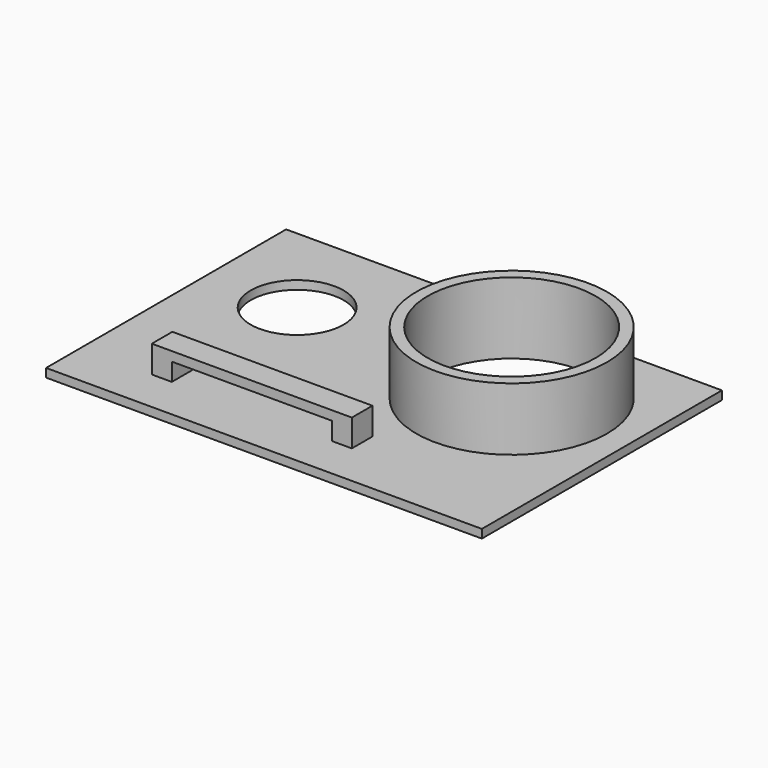
from build123d import *

# Parameters (mm, degrees)
F0_W     = 61
F0_H     = 42
F0_W_2   = 28
F0_H_2   = 3.6
F0_R     = 6.5
F0_R_2   = 13.35
F0_R_3   = 11.75
F1_DEPTH = 1.2
F2_DEPTH = 10
F3_DEPTH = 5
F4_W     = 22.4
F4_H     = 2.5
F5_DEPTH = 5


with BuildPart() as f1:
    # F0 (on Top) → F1 (new body)
    with BuildSketch(Plane.XY):
        with Locations((30.5, 21)):
            Rectangle(F0_W, F0_H)
        with Locations((24, 7.8)):
            Rectangle(F0_W_2, F0_H_2, mode=Mode.SUBTRACT)
        with Locations((12.5, 28.3)):
            Circle(F0_R, mode=Mode.SUBTRACT)
        with Locations((44.25, 26.15)):
            Circle(F0_R_2, mode=Mode.SUBTRACT)
        with Locations((44.25, 26.15)):
            Circle(F0_R_2)
        with Locations((44.25, 26.15)):
            Circle(F0_R_3, mode=Mode.SUBTRACT)
    extrude(amount=F1_DEPTH)

    # F0 (on Top) → F2 (join)
    with BuildSketch(Plane.XY):
        with Locations((44.25, 26.15)):
            Circle(F0_R_2)
        with Locations((44.25, 26.15)):
            Circle(F0_R_3, mode=Mode.SUBTRACT)
    extrude(amount=F2_DEPTH)

    # F0 (on Top) → F3 (join)
    with BuildSketch(Plane.XY):
        with Locations((24, 7.8)):
            Rectangle(F0_W_2, F0_H_2)
    extrude(amount=F3_DEPTH)

    # F4 (on face) → F5 (cut)
    with BuildSketch(Plane.XZ.offset(-6)):
        with Locations((24, 2.45)):
            Rectangle(F4_W, F4_H)
    extrude(amount=-F5_DEPTH, mode=Mode.SUBTRACT)


solid = f1.part
